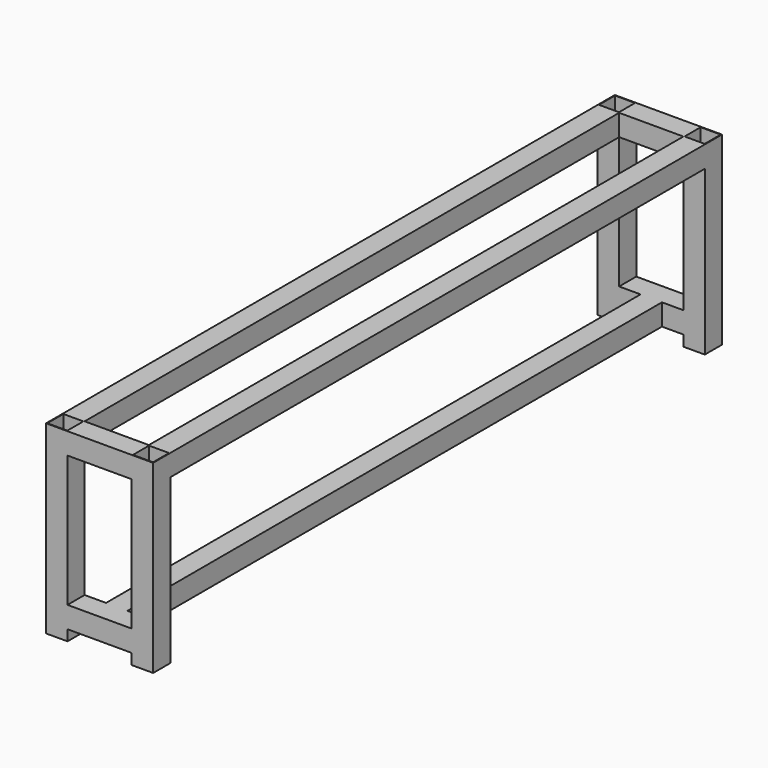
from build123d import *

# Parameters (mm, degrees)
F0_W     = 50
F0_H     = 50
F0_W_2   = 46.8
F0_H_2   = 46.8
F1_DEPTH = 432
F2_W     = 50
F2_H     = 50
F2_W_2   = 46.8
F2_H_2   = 46.8
F3_DEPTH = 75
F4_W     = 50
F4_H     = 50
F4_W_2   = 46.8
F4_H_2   = 46.8
F5_DEPTH = 780


with BuildPart() as f1:
    # F0 (on Top) → F1 (new body)
    with BuildSketch(Plane.XY):
        with Locations((-0.5586, -2.413411)):
            Rectangle(F0_W, F0_H)
        with Locations((-0.5586, -2.413411)):
            Rectangle(F0_W_2, F0_H_2, mode=Mode.SUBTRACT)
    extrude(amount=F1_DEPTH)

    # F2 (on face) → F3 (join)
    with BuildSketch(Plane.YZ.offset(24.4414)):
        with Locations((-2.413411, 50)):
            Rectangle(F2_W, F2_H)
        with Locations((-2.413411, 50)):
            Rectangle(F2_W_2, F2_H_2, mode=Mode.SUBTRACT)
        with Locations((-2.413411, 407)):
            Rectangle(F2_W, F2_H)
        with Locations((-2.413411, 407)):
            Rectangle(F2_W_2, F2_H_2, mode=Mode.SUBTRACT)
    extrude(amount=F3_DEPTH)

    # F4 (on face) → F5 (join)
    with BuildSketch(Plane.XZ.offset(27.413411)):
        with Locations((-0.5586, 407)):
            Rectangle(F4_W, F4_H)
        with Locations((-0.5586, 407)):
            Rectangle(F4_W_2, F4_H_2, mode=Mode.SUBTRACT)
        Polygon((99.4414, 75), (74.4414, 75), (74.4414, 25), (99.4414, 25), (99.4414, 26.6), (76.0414, 26.6), (76.0414, 73.4), (99.4414, 73.4), align=None)
    extrude(amount=F5_DEPTH)

    # F6: F1 across face


with BuildPart() as f1_1:
    add(f1.part)
    add(f1.part.mirror(Plane(origin=(-0.5586, -807.413411, 407), x_dir=(1, 0, 0), z_dir=(0, -1, 0))))

    # F7: F1 across face


with BuildPart() as f1_2:
    add(f1_1.part)
    add(f1_1.part.mirror(Plane(origin=(99.4414, -2.413411, 407), x_dir=(0, 1, 0), z_dir=(1, 0, 0))))


solid = f1_2.part
